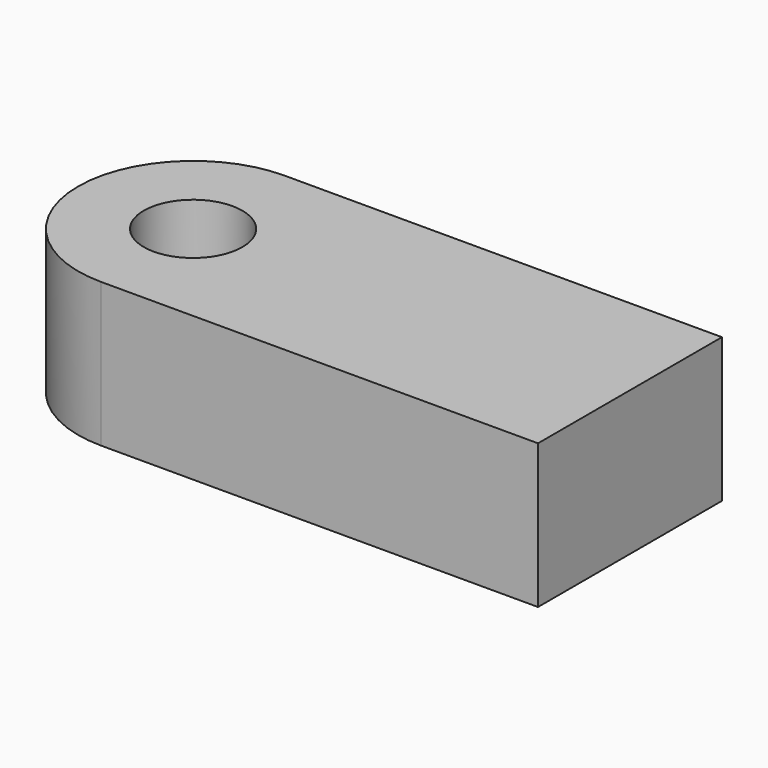
from build123d import *

# Parameters (mm, degrees)
F0_R     = 8.689318
F1_DEPTH = 25.4


with BuildPart() as f1:
    # F0 (on Top) → F1 (new body)
    with BuildSketch(Plane.XY):
        with BuildLine():
            ThreePointArc((-38.492784, 20.254536), (-58.74732, 0), (-38.492784, -20.254536))
            Line((-38.492784, -20.254536), (38.492784, -20.254536))
            Line((38.492784, -20.254536), (38.492784, 20.254536))
            Line((38.492784, 20.254536), (-38.492784, 20.254536))
        make_face()
        with Locations((-38.492784, 0)):
            Circle(F0_R, mode=Mode.SUBTRACT)
    extrude(amount=F1_DEPTH)


solid = f1.part
